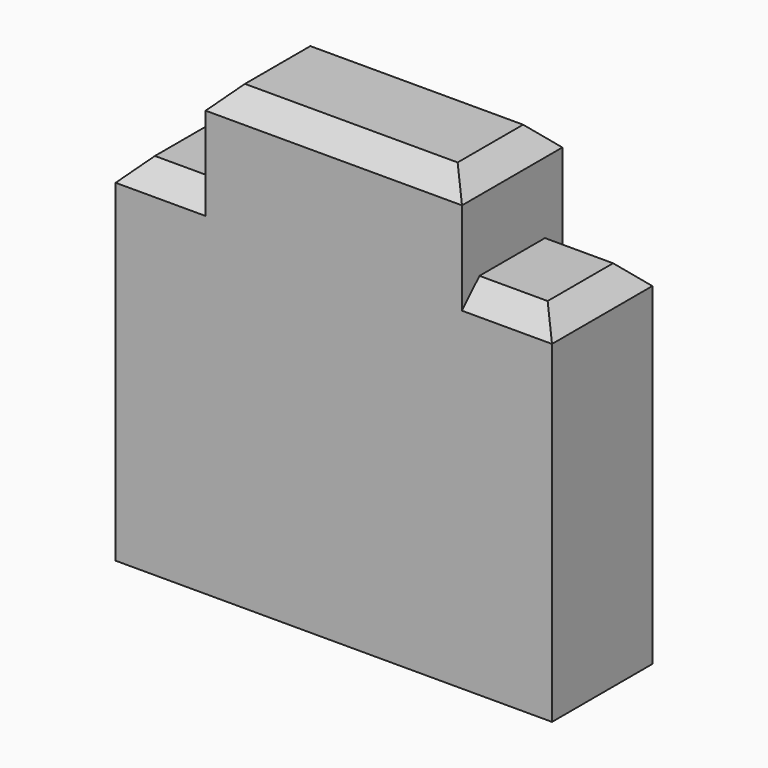
from build123d import *

# Parameters (mm, degrees)
SKETCH008_W     = 4
SKETCH008_H     = 1.15
PAD005_DEPTH    = 4.1
SKETCH009_W     = 0.825
SKETCH009_H     = 0.85
POCKET002_DEPTH = 5
CHAMFER005_SIZE = 0.2


with BuildPart() as part:
    # Sketch008 → Pad005 (new body)
    with BuildSketch(Plane.XY):
        Rectangle(SKETCH008_W, SKETCH008_H)
    extrude(amount=PAD005_DEPTH)

    # Sketch009 (on Face1 of Pad005) → Pocket002 (cut)
    with BuildSketch(Plane(origin=(0, 0.575, 0), x_dir=(-1, 0, 0), z_dir=(0, 1, 0))):
        with Locations((-1.5875, 3.675)):
            Rectangle(SKETCH009_W, SKETCH009_H)
        with Locations((1.5875, 3.675)):
            Rectangle(SKETCH009_W, SKETCH009_H)
    extrude(amount=-POCKET002_DEPTH, mode=Mode.SUBTRACT)

    # Chamfer005
    chamfer005_edges = [part.edges().sort_by_distance(p)[0] for p in [
        (0, 0.575, 4.1),
        (0, -0.575, 4.1),
        (1.5875, 0.575, 3.25),
        (-1.5875, 0.575, 3.25),
        (-1.5875, -0.575, 3.25),
        (1.5875, -0.575, 3.25),
        (2, 0, 3.25),
        (-2, 0, 3.25),
        (1.175, 0, 4.1),
        (-1.175, 0, 4.1),
    ]]
    chamfer(chamfer005_edges, length=CHAMFER005_SIZE)


with BuildPart() as part_1:
    # Body043 placement: moved
    add(part.part.moved(Location((0, 54, 0))))


solid = part_1.part
